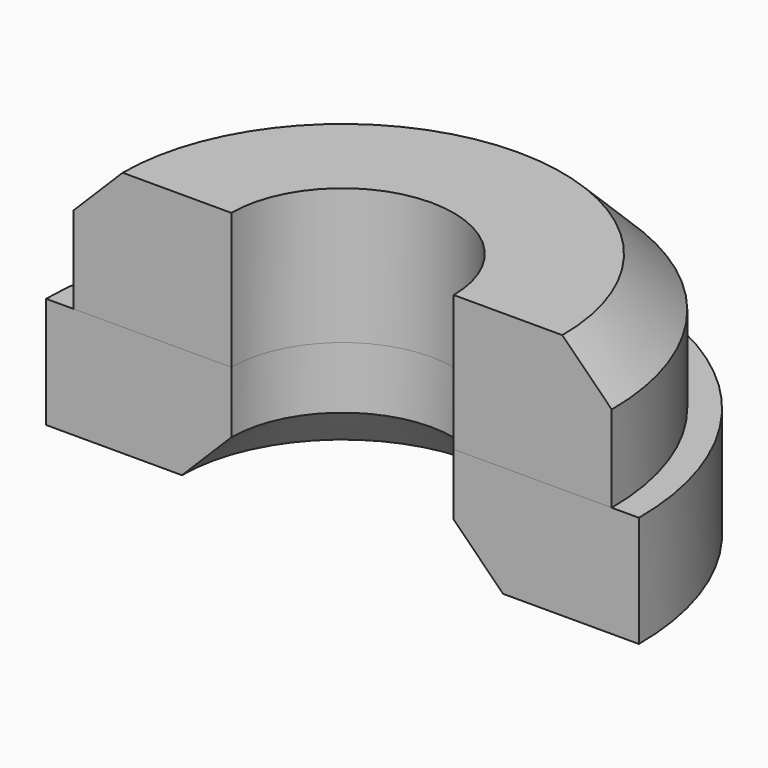
from build123d import *

# Parameters (mm, degrees)
F0_R      = 12
F0_R_2    = 10.9
F0_R_3    = 4.5
F1_DEPTH  = 4.5
F2_START  = 4.5
F2_DEPTH  = 5.5
F3_SIZE   = 2
F3_2_SIZE = 2
F4_W      = 41.8951492757
F4_H      = 15.0316422805
F5_DEPTH  = 25


with BuildPart() as f1:
    # F0 (on Top) → F1 (new body)
    with BuildSketch(Plane.XY):
        Circle(F0_R)
        Circle(F0_R_2, mode=Mode.SUBTRACT)
        Circle(F0_R_2)
        Circle(F0_R_3, mode=Mode.SUBTRACT)
    extrude(amount=F1_DEPTH)

    # F3
    f3_edges = [f1.edges().sort_by_distance(p)[0] for p in [
        (-4.5, 0, 0),
    ]]
    chamfer(f3_edges, length=F3_SIZE)


with BuildPart() as f2:
    # F0 (on Top) → F2 (new body)
    with BuildSketch(Plane.XY.offset(F2_START)):
        Circle(F0_R_2)
        Circle(F0_R_3, mode=Mode.SUBTRACT)
    extrude(amount=F2_DEPTH)

    # F3#2
    f3_2_edges = [f2.edges().sort_by_distance(p)[0] for p in [
        (-10.9, 0, 10),
    ]]
    chamfer(f3_2_edges, length=F3_2_SIZE)


with BuildPart() as f5_tool:
    # F4 (on Top) → F5 (new body)
    with BuildSketch(Plane.XY):
        with Locations((-0.9161634371, -7.5158211403)):
            Rectangle(F4_W, F4_H)
    extrude(amount=F5_DEPTH)


with BuildPart() as f1_1:
    add(f1.part)

    # F5: cut by f5_tool
    add(f5_tool.part, mode=Mode.SUBTRACT)


with BuildPart() as f2_1:
    add(f2.part)

    # F5: cut by f5_tool
    add(f5_tool.part, mode=Mode.SUBTRACT)


solid = Compound([f1_1.part, f2_1.part])
